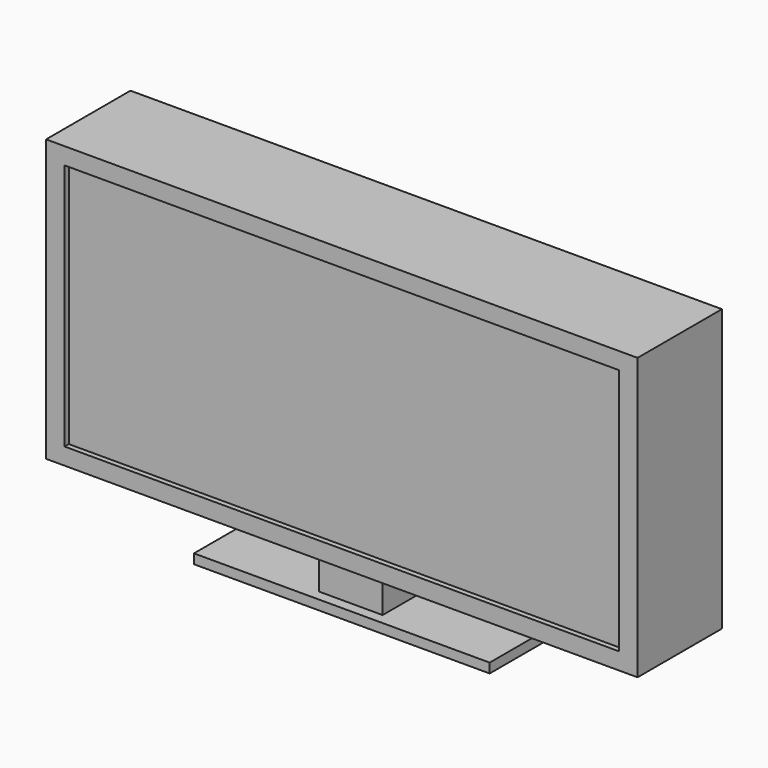
from build123d import *

# Parameters (mm, degrees)
F0_W     = 133.553728
F0_H     = 59.615288
F1_DEPTH = 12.7
F2_DEPTH = 11.43
F0_W_2   = 15.333298
F0_H_2   = 8.458886
F3_DEPTH = 10.16
F4_DEPTH = 12.7


with BuildPart() as f1:
    # F0 (on Front) → F1 (new body, symmetric)
    with BuildSketch(Plane.XZ):
        Polygon((71.228367, -33.870557), (71.228367, 33.870557), (-71.228367, 33.870557), (-71.228367, -33.870557), (-7.538104, -33.870557), (7.795194, -33.870557), align=None)
        Rectangle(F0_W, F0_H, mode=Mode.SUBTRACT)
    extrude(amount=F1_DEPTH, both=True)

    # F0 (on Front) → F2 (join, symmetric)
    with BuildSketch(Plane.XZ):
        Rectangle(F0_W, F0_H)
    extrude(amount=F2_DEPTH, both=True)

    # F0 (on Front) → F3 (join, symmetric)
    with BuildSketch(Plane.XZ):
        with Locations((0.128545, -38.1)):
            Rectangle(F0_W_2, F0_H_2)
    extrude(amount=F3_DEPTH, both=True)

    # F0 (on Front) → F4 (join, symmetric)
    with BuildSketch(Plane.XZ):
        Polygon((35.614184, -42.329443), (7.795194, -42.329443), (-7.538104, -42.329443), (-35.614184, -42.329443), (-35.614184, -44.638067), (35.614184, -44.638067), align=None)
    extrude(amount=F4_DEPTH, both=True)


solid = f1.part
